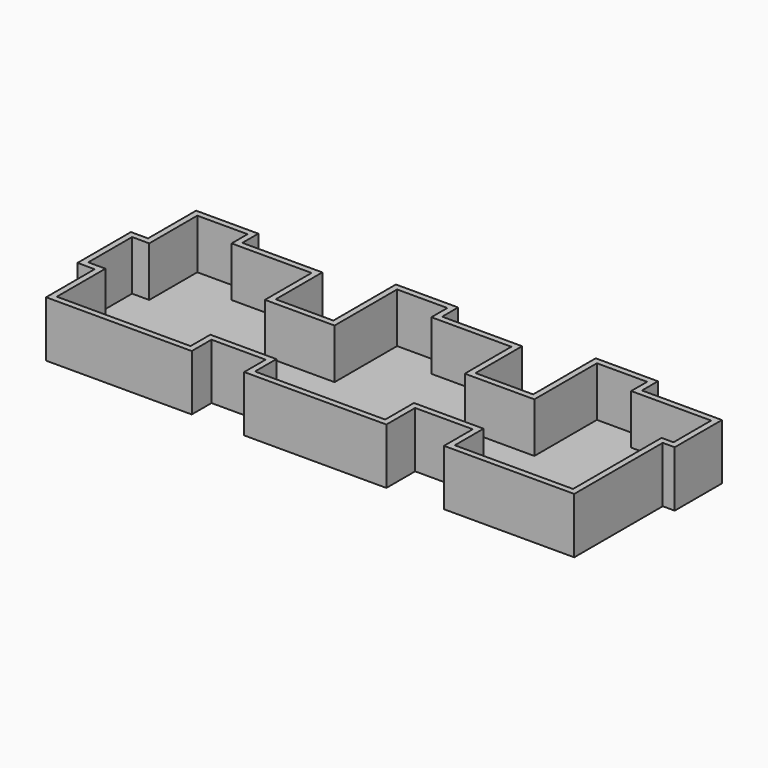
from build123d import *

# Parameters (mm, degrees)
F1_DEPTH = 3
F3_DEPTH = 25


with BuildPart() as f1:
    # F0 (on Top) → F1 (new body)
    with BuildSketch(Plane.XY):
        Polygon((31.2, 0), (0, 0), (0, -30.118711), (-8.601577, -30.118711), (-8.601577, -63.583943), (0, -63.583943), (0, -94.037309), (73.053598, -94.037309), (73.053598, -81.655175), (100.2, -81.655175), (100.2, -95.087759), (171.5, -95.087759), (171.5, -77.062562), (200.4, -77.062562), (200.4, -95.087759), (265.7, -95.087759), (265.7, -39.6), (271.7, -39.6), (271.7, -10), (231.6, -10), (231.6, 0), (200.4, 0), (200.4, -39.2), (171.5, -39.2), (171.5, -10), (131.4, -10), (131.4, 0), (100.2, 0), (100.2, -39.2), (71.3, -39.2), (71.3, -10), (31.2, -10), align=None)
    extrude(amount=F1_DEPTH)

    # F2 (on face) → F3 (join)
    with BuildSketch(Plane.XY.offset(3)):
        Polygon((31.2, -10), (31.2, 0), (0, 0), (0, -30.118711), (-8.601577, -30.118711), (-8.601577, -63.583943), (0, -63.583943), (0, -94.037309), (73.053598, -94.037309), (73.053598, -81.655175), (100.2, -81.655175), (100.2, -95.087759), (171.5, -95.087759), (171.5, -77.062562), (200.4, -77.062562), (200.4, -95.087759), (265.7, -95.087759), (265.7, -39.6), (271.7, -39.6), (271.7, -10), (231.6, -10), (231.6, 0), (200.4, 0), (200.4, -39.2), (171.5, -39.2), (171.5, -10), (131.4, -10), (131.4, 0), (100.2, 0), (100.2, -39.2), (71.3, -39.2), (71.3, -10), align=None)
        Polygon((3, -91.037309), (3, -60.583943), (-5.601577, -60.583943), (-5.601577, -33.118711), (3, -33.118711), (3, -3), (28.2, -3), (28.2, -13), (68.3, -13), (68.3, -42.2), (103.2, -42.2), (103.2, -3), (128.4, -3), (128.4, -13), (168.5, -13), (168.5, -42.2), (203.4, -42.2), (203.4, -3), (228.6, -3), (228.6, -13), (268.7, -13), (268.7, -36.6), (262.7, -36.6), (262.7, -92.087759), (203.4, -92.087759), (203.4, -74.062562), (168.5, -74.062562), (168.5, -92.087759), (103.2, -92.087759), (103.2, -78.655175), (70.053598, -78.655175), (70.053598, -91.037309), align=None, mode=Mode.SUBTRACT)
    extrude(amount=F3_DEPTH)


solid = f1.part
